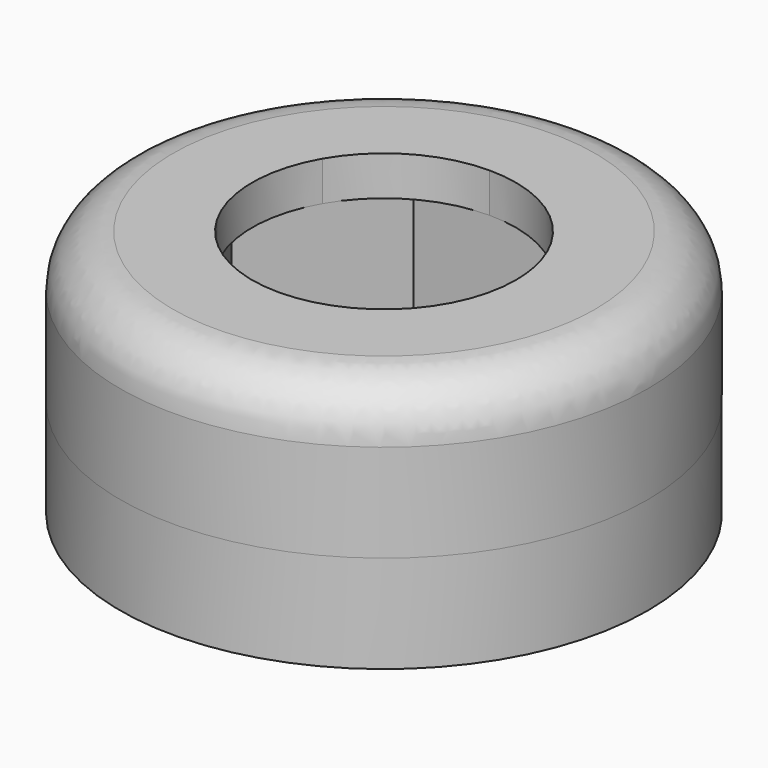
from build123d import *

# Parameters (mm, degrees)
F0_R     = 12.7
F1_DEPTH = 4.699
F2_DEPTH = 5.334
F3_R     = 12.7
F4_DEPTH = 1.905
F5_R     = 2.54


with BuildPart() as f1:
    # F0 (on Top) → F1 (new body)
    with BuildSketch(Plane.XY):
        Circle(F0_R)
        Polygon((-3.6661742094, 6.35), (3.6661742094, 6.35), (7.3323484187, 0), (3.6661742094, -6.35), (-3.6661742094, -6.35), (-7.3323484187, 0), align=None, mode=Mode.SUBTRACT)
        Polygon((7.3323484187, 0), (3.6661742094, 6.35), (-3.6661742094, 6.35), (-7.3323484187, 0), (-3.6661742094, -6.35), (3.6661742094, -6.35), align=None)
    extrude(amount=-F1_DEPTH)

    # F0 (on Top) → F2 (join)
    with BuildSketch(Plane.XY):
        Circle(F0_R)
        Polygon((-3.6661742094, 6.35), (3.6661742094, 6.35), (7.3323484187, 0), (3.6661742094, -6.35), (-3.6661742094, -6.35), (-7.3323484187, 0), align=None, mode=Mode.SUBTRACT)
    extrude(amount=F2_DEPTH)

    # F3 (on face) → F4 (join)
    with BuildSketch(Plane.XY.offset(5.334)):
        Circle(F3_R)
        Polygon((3.6661742094, 6.35), (5.4992612609, 3.175000092), (7.3323484187, 0), (5.4992613458, -3.174999945), (3.6661742094, -6.35), (0, -6.35), (-3.6661742094, -6.35), (-5.4992613297, -3.1749999728), (-7.3323484187, 0), (-5.4992612781, 3.1750000622), (-3.6661742094, 6.35), (0, 6.35), align=None, mode=Mode.SUBTRACT)
        with BuildLine():
            ThreePointArc((-5.4992612781, 3.1750000622), (-3.1749999689, 5.499261332), (0, 6.35))
            Line((0, 6.35), (-3.6661742094, 6.35))
            Line((-3.6661742094, 6.35), (-5.4992612781, 3.1750000622))
        make_face()
        with BuildLine():
            ThreePointArc((0, 6.35), (3.174999954, 5.4992613406), (5.4992612609, 3.175000092))
            Line((5.4992612609, 3.175000092), (3.6661742094, 6.35))
            Line((3.6661742094, 6.35), (0, 6.35))
        make_face()
        with BuildLine():
            ThreePointArc((5.4992612609, 3.175000092), (6.1336289832, 1.6435009877), (6.35, 0))
            ThreePointArc((6.35, 0), (6.1336290052, -1.6435009057), (5.4992613458, -3.174999945))
            Line((5.4992613458, -3.174999945), (7.3323484187, 0))
            Line((7.3323484187, 0), (5.4992612609, 3.175000092))
        make_face()
        with BuildLine():
            Line((3.6661742094, -6.35), (5.4992613458, -3.174999945))
            ThreePointArc((5.4992613458, -3.174999945), (3.1750000275, -5.4992612981), (0, -6.35))
            Line((0, -6.35), (3.6661742094, -6.35))
        make_face()
        with BuildLine():
            Line((-3.6661742094, -6.35), (0, -6.35))
            ThreePointArc((0, -6.35), (-3.1750000136, -5.4992613062), (-5.4992613297, -3.1749999728))
            Line((-5.4992613297, -3.1749999728), (-3.6661742094, -6.35))
        make_face()
        with BuildLine():
            ThreePointArc((-5.4992613297, -3.1749999728), (-6.35, 5.16e-08), (-5.4992612781, 3.1750000622))
            Line((-5.4992612781, 3.1750000622), (-7.3323484187, 0))
            Line((-7.3323484187, 0), (-5.4992613297, -3.1749999728))
        make_face()
    extrude(amount=F4_DEPTH)

    # F5
    f5_edges = [f1.edges().sort_by_distance(p)[0] for p in [
        (-12.7, 0, 7.239),
    ]]
    fillet(f5_edges, radius=F5_R)


solid = f1.part
